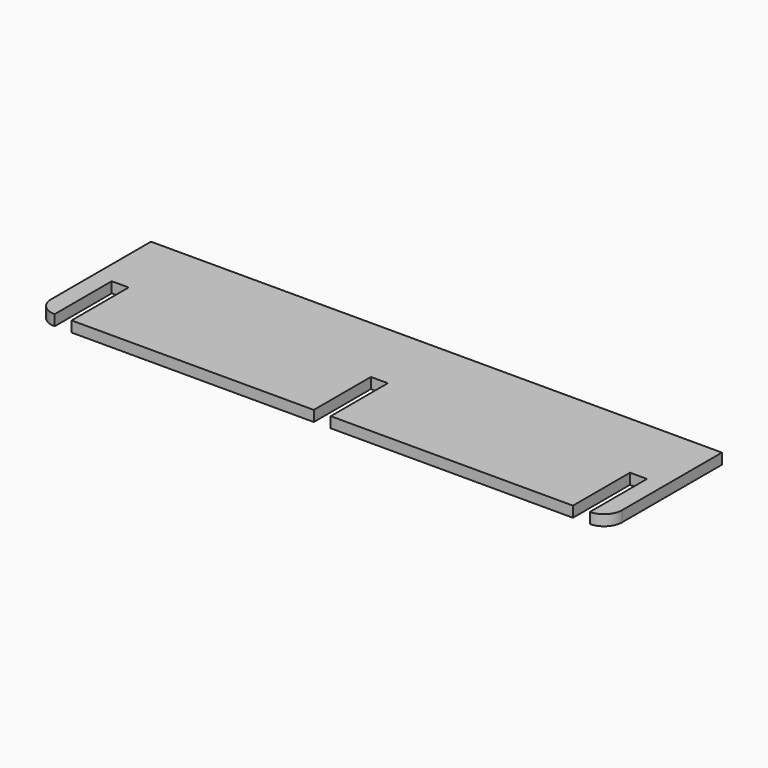
from build123d import *

# Parameters (mm, degrees)
F1_DEPTH = 3


with BuildPart() as f1:
    # F0 (on Top) → F1 (new body)
    with BuildSketch(Plane.XY):
        with BuildLine():
            Line((80, 20), (-80, 20))
            Line((-80, 20), (-80, -15))
            ThreePointArc((-80, -15), (-78.535534, -18.535534), (-75, -20))
            Line((-75, -20), (-75, 0))
            Line((-75, 0), (-70.25, 0))
            Line((-70.25, 0), (-70.25, -20))
            Line((-70.25, -20), (-2.375, -20))
            Line((-2.375, -20), (-2.375, 0))
            Line((-2.375, 0), (2.375, 0))
            Line((2.375, 0), (2.375, -20))
            Line((2.375, -20), (70.25, -20))
            Line((70.25, -20), (70.25, 0))
            Line((70.25, 0), (75, 0))
            Line((75, 0), (75, -20))
            ThreePointArc((75, -20), (78.535534, -18.535534), (80, -15))
            Line((80, -15), (80, 20))
        make_face()
    extrude(amount=F1_DEPTH)


solid = f1.part
